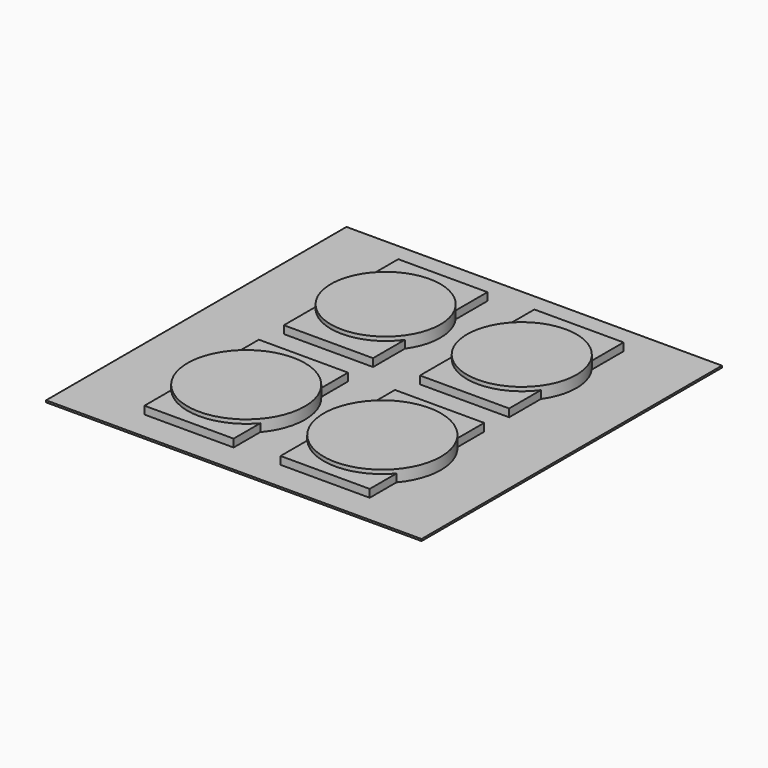
from build123d import *

# Parameters (mm, degrees)
F0_W     = 304.8
F0_H     = 304.8
F1_DEPTH = 1.524
F2_W     = 72.39
F2_H     = 116.078
F3_DEPTH = 6.35
F4_R     = 44.45
F4_R_2   = 47.625
F5_DEPTH = 9.525


with BuildPart() as f1:
    # F0 (on Top) → F1 (new body)
    with BuildSketch(Plane.XY):
        Rectangle(F0_W, F0_H)
    extrude(amount=F1_DEPTH)

    # F2 (on face) → F3 (join)
    with BuildSketch(Plane.XY.offset(1.524)):
        with Locations((-55.245, 70.739)):
            Rectangle(F2_W, F2_H)
        with Locations((55.245, 70.739)):
            Rectangle(F2_W, F2_H)
        with Locations((-55.245, -70.739)):
            Rectangle(F2_W, F2_H)
        with Locations((55.245, -70.739)):
            Rectangle(F2_W, F2_H)
    extrude(amount=F3_DEPTH)

    # F4 (on face) → F5 (join)
    with BuildSketch(Plane.XY.offset(1.524)):
        with Locations((-55.245, 70.739)):
            Circle(F4_R)
        with Locations((55.245, 70.739)):
            Circle(F4_R)
        with Locations((-55.245, -70.739)):
            Circle(F4_R_2)
        with Locations((55.245, -70.739)):
            Circle(F4_R_2)
    extrude(amount=F5_DEPTH)


solid = f1.part
